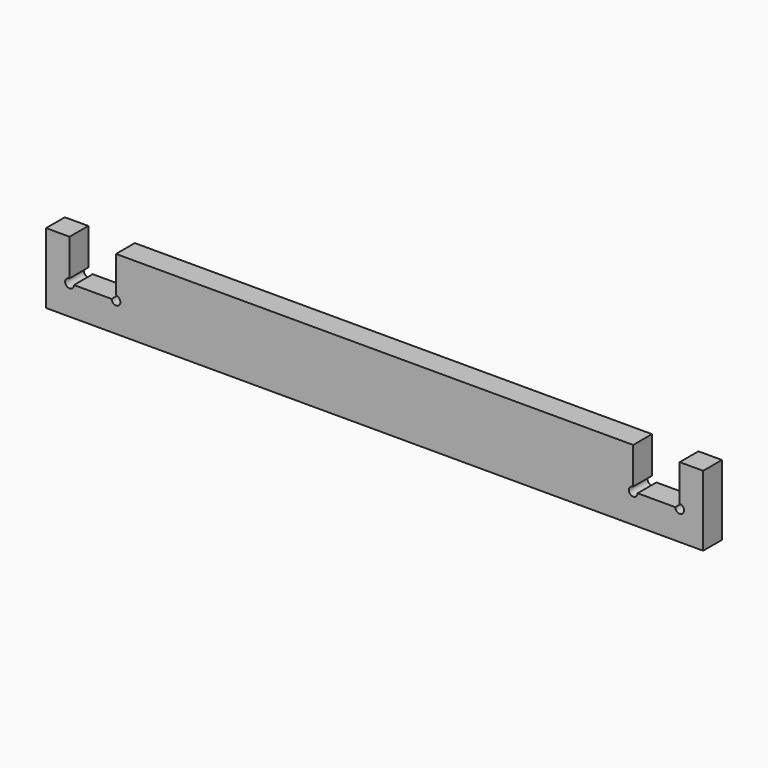
from build123d import *

# Parameters (mm, degrees)
F0_W     = 177.8
F0_H     = 6.35
F1_DEPTH = 19.05
F3_DEPTH = 6.35


with BuildPart() as f1:
    # F0 (on Top) → F1 (new body)
    with BuildSketch(Plane.XY):
        Rectangle(F0_W, F0_H)
    extrude(amount=F1_DEPTH)

    # F2 (on face) → F3 (cut, through all)
    with BuildSketch(Plane.XZ.offset(3.175)):
        with BuildLine():
            Line((-69.977, 19.05), (-82.55, 19.05))
            Line((-82.55, 19.05), (-82.55, 9.128125))
            ThreePointArc((-82.55, 9.128125), (-81.708101, 8.779399), (-81.359375, 7.9375))
            Line((-81.359375, 7.9375), (-71.167625, 7.9375))
            ThreePointArc((-71.167625, 7.9375), (-70.818899, 8.779399), (-69.977, 9.128125))
            Line((-69.977, 9.128125), (-69.977, 19.05))
        make_face()
        with BuildLine():
            Line((-82.55, 7.9375), (-82.55, 9.128125))
            ThreePointArc((-82.55, 9.128125), (-83.391899, 7.095601), (-81.359375, 7.9375))
            Line((-81.359375, 7.9375), (-82.55, 7.9375))
        make_face()
        with BuildLine():
            ThreePointArc((-81.359375, 7.9375), (-81.708101, 8.779399), (-82.55, 9.128125))
            Line((-82.55, 9.128125), (-82.55, 7.9375))
            Line((-82.55, 7.9375), (-81.359375, 7.9375))
        make_face()
        with BuildLine():
            Line((-69.977, 7.9375), (-69.977, 9.128125))
            ThreePointArc((-69.977, 9.128125), (-70.818899, 8.779399), (-71.167625, 7.9375))
            Line((-71.167625, 7.9375), (-69.977, 7.9375))
        make_face()
        with BuildLine():
            ThreePointArc((-68.786375, 7.9375), (-69.135101, 8.779399), (-69.977, 9.128125))
            Line((-69.977, 9.128125), (-69.977, 7.9375))
            Line((-69.977, 7.9375), (-71.167625, 7.9375))
            ThreePointArc((-71.167625, 7.9375), (-69.977, 6.746875), (-68.786375, 7.9375))
        make_face()
        with BuildLine():
            Line((82.55, 19.05), (69.977, 19.05))
            Line((69.977, 19.05), (69.977, 9.128125))
            ThreePointArc((69.977, 9.128125), (70.818899, 8.779399), (71.167625, 7.9375))
            Line((71.167625, 7.9375), (81.359375, 7.9375))
            ThreePointArc((81.359375, 7.9375), (81.708101, 8.779399), (82.55, 9.128125))
            Line((82.55, 9.128125), (82.55, 19.05))
        make_face()
        with BuildLine():
            Line((69.977, 7.9375), (69.977, 9.128125))
            ThreePointArc((69.977, 9.128125), (69.135101, 7.095601), (71.167625, 7.9375))
            Line((71.167625, 7.9375), (69.977, 7.9375))
        make_face()
        with BuildLine():
            ThreePointArc((71.167625, 7.9375), (70.818899, 8.779399), (69.977, 9.128125))
            Line((69.977, 9.128125), (69.977, 7.9375))
            Line((69.977, 7.9375), (71.167625, 7.9375))
        make_face()
        with BuildLine():
            Line((82.55, 7.9375), (82.55, 9.128125))
            ThreePointArc((82.55, 9.128125), (81.708101, 8.779399), (81.359375, 7.9375))
            Line((81.359375, 7.9375), (82.55, 7.9375))
        make_face()
        with BuildLine():
            ThreePointArc((83.740625, 7.9375), (83.391899, 8.779399), (82.55, 9.128125))
            Line((82.55, 9.128125), (82.55, 7.9375))
            Line((82.55, 7.9375), (81.359375, 7.9375))
            ThreePointArc((81.359375, 7.9375), (82.55, 6.746875), (83.740625, 7.9375))
        make_face()
    extrude(amount=-F3_DEPTH, mode=Mode.SUBTRACT)


solid = f1.part
